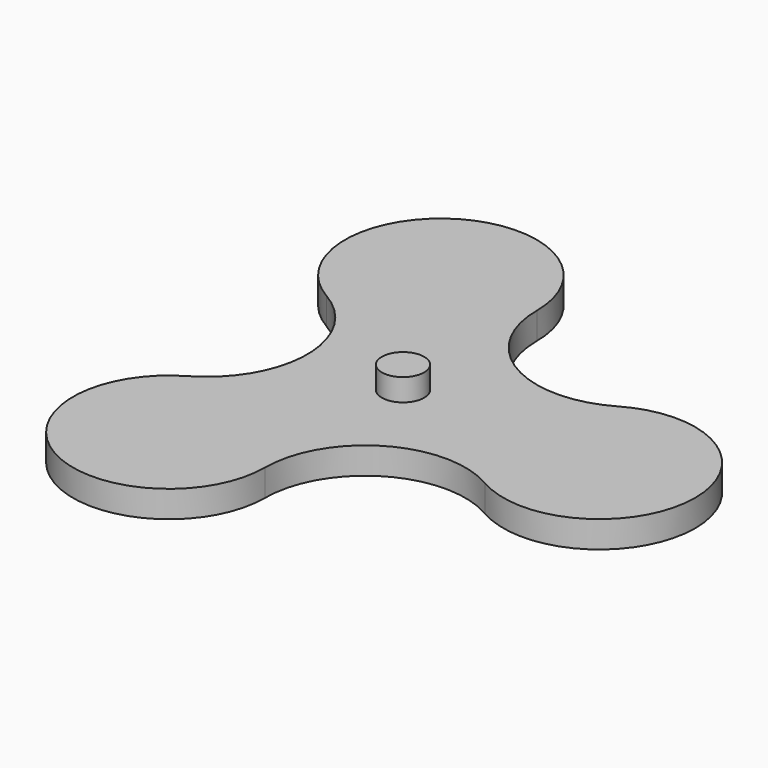
from build123d import *

# Parameters (mm, degrees)
F1_DEPTH = 3
F2_R     = 2.375
F3_DEPTH = 2.5


with BuildPart() as f1:
    # F0 (on Top) → F1 (new body)
    with BuildSketch(Plane.XY):
        with BuildLine():
            ThreePointArc((16.625, -9.309773), (32.75, 0), (16.625, 9.309773))
            ThreePointArc((16.625, 9.309773), (5.375, 9.309773), (-0.25, 19.052559))
            ThreePointArc((-0.25, 19.052559), (-16.375, 28.362332), (-16.375, 9.742786))
            ThreePointArc((-16.375, 9.742786), (-10.75, 0), (-16.375, -9.742786))
            ThreePointArc((-16.375, -9.742786), (-16.375, -28.362332), (-0.25, -19.052559))
            ThreePointArc((-0.25, -19.052559), (5.375, -9.309773), (16.625, -9.309773))
        make_face()
    extrude(amount=F1_DEPTH)

    # F2 (on face) → F3 (join)
    with BuildSketch(Plane.XY.offset(3)):
        Circle(F2_R)
    extrude(amount=F3_DEPTH)


solid = f1.part
